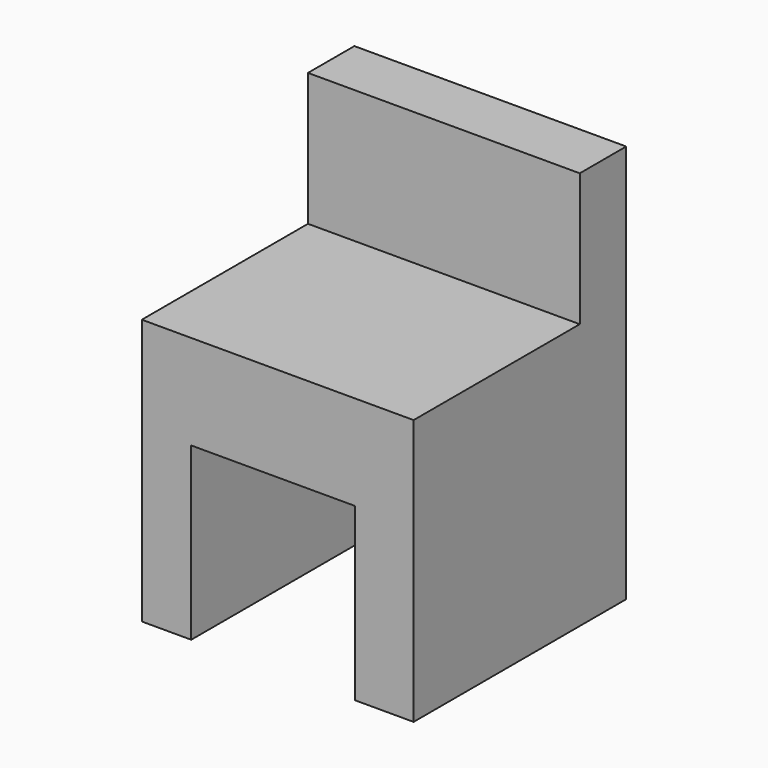
from build123d import *

# Parameters (mm, degrees)
F0_W     = 102.297458
F0_H     = 100
F1_DEPTH = 100
F2_W     = 102.297458
F2_H     = 21.841843
F3_DEPTH = 25
F4_W     = 61.577909
F4_H     = 64.383507
F5_DEPTH = 100.001
F6_W     = 102.297458
F6_H     = 21.841843
F7_DEPTH = 25


with BuildPart() as f1:
    # F0 (on Top) → F1 (new body)
    with BuildSketch(Plane.XY):
        with Locations((-2.261983, 5.572585)):
            Rectangle(F0_W, F0_H)
    extrude(amount=F1_DEPTH)

    # F2 (on face) → F3 (join)
    with BuildSketch(Plane.XY.offset(100)):
        with Locations((-2.261983, 44.651663)):
            Rectangle(F2_W, F2_H)
    extrude(amount=F3_DEPTH)

    # F4 (on face) → F5 (cut, through all)
    with BuildSketch(Plane.XZ.offset(44.427415)):
        with Locations((-4.023236, 32.191753)):
            Rectangle(F4_W, F4_H)
    extrude(amount=-F5_DEPTH, mode=Mode.SUBTRACT)

    # F6 (on face) → F7 (join)
    with BuildSketch(Plane.XY.offset(125)):
        with Locations((-2.261983, 44.651663)):
            Rectangle(F6_W, F6_H)
    extrude(amount=F7_DEPTH)


solid = f1.part
